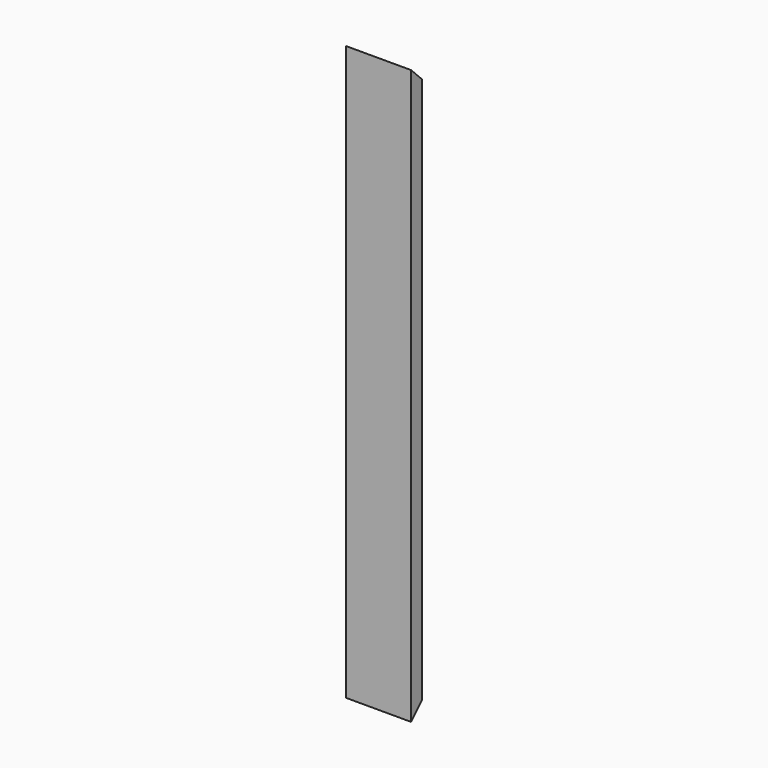
from build123d import *

# Parameters (mm, degrees)
F0_W     = 184.15
F0_H     = 38.1
F1_DEPTH = 1625.6
F3_DEPTH = 190.5


with BuildPart() as f1:
    # F0 (on Top) → F1 (new body)
    with BuildSketch(Plane.XY):
        Rectangle(F0_W, F0_H)
    extrude(amount=F1_DEPTH)

    # F2 (on face) → F3 (cut)
    with BuildSketch(Plane.YZ.offset(92.075)):
        Polygon((19.05, 1625.6), (-19.05, 1625.6), (19.05, 1587.5), align=None)
        Polygon((19.05, 38.1), (-19.05, 0), (19.05, 0), align=None)
    extrude(amount=-F3_DEPTH, mode=Mode.SUBTRACT)


solid = f1.part
